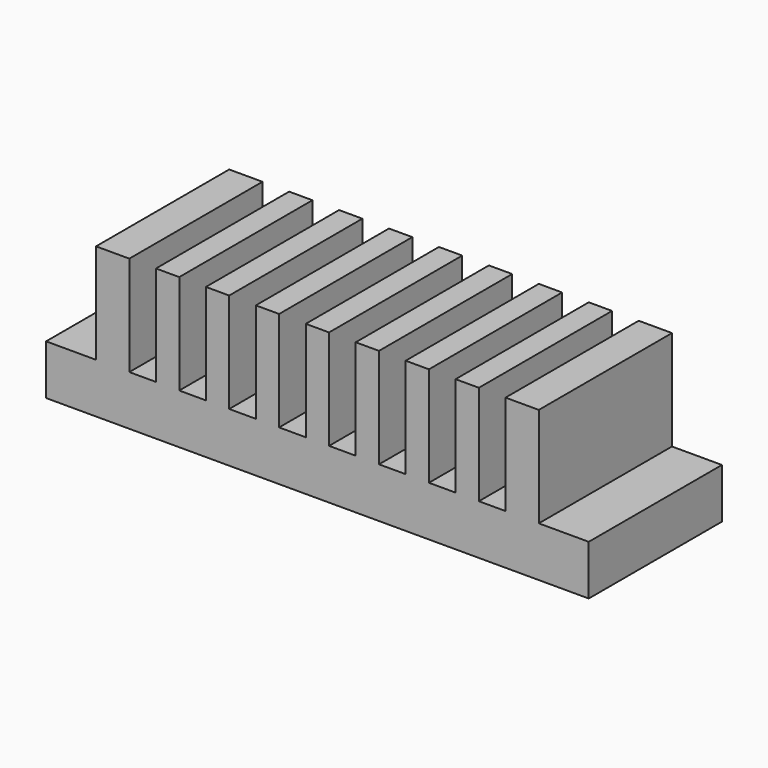
from build123d import *

# Parameters (mm, degrees)
F1_DEPTH = 50


with BuildPart() as f1:
    # F0 (on Front) → F1 (new body)
    with BuildSketch(Plane.XZ):
        Polygon((-81.5, -25), (81.5, -25), (81.5, -10), (66.5, -10), (66.5, 20), (56.5, 20), (56.5, -10), (48.5, -10), (48.5, 20), (41.5, 20), (41.5, -10), (33.5, -10), (33.5, 20), (26.5, 20), (26.5, -10), (18.5, -10), (18.5, 20), (11.5, 20), (11.5, -10), (3.5, -10), (3.5, 20), (-3.5, 20), (-3.5, -10), (-11.5, -10), (-11.5, 20), (-18.5, 20), (-18.5, -10), (-26.5, -10), (-26.5, 20), (-33.5, 20), (-33.5, -10), (-41.5, -10), (-41.5, 20), (-48.5, 20), (-48.5, -10), (-56.5, -10), (-56.5, 20), (-66.5, 20), (-66.5, -10), (-81.5, -10), align=None)
    extrude(amount=F1_DEPTH)


solid = f1.part
